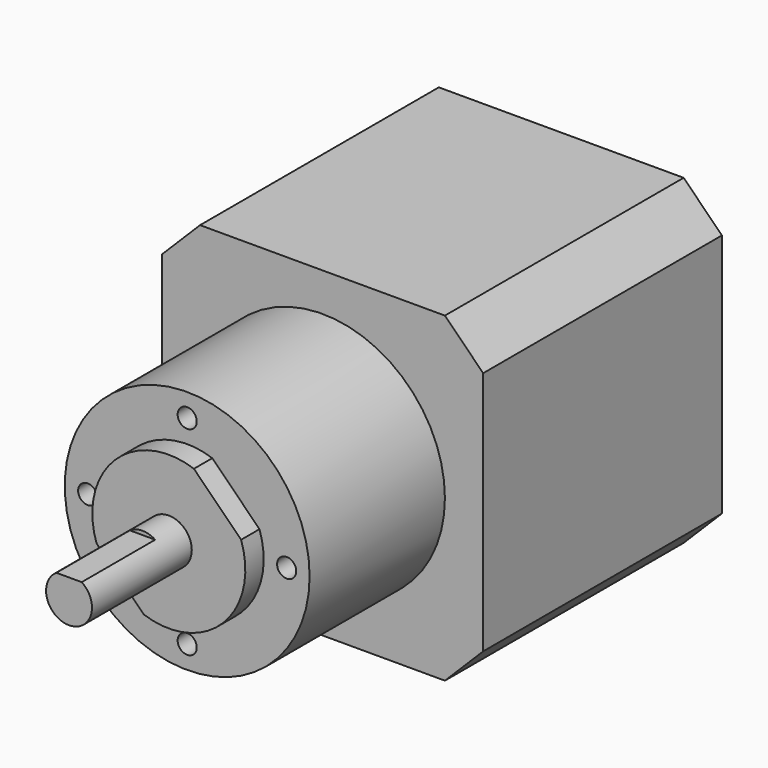
from build123d import *

# Parameters (mm, degrees)
F0_W      = 42
F0_H      = 42
F1_DEPTH  = 39
F2_R      = 16
F3_DEPTH  = 22.1
F4_R      = 10
F5_DEPTH  = 3
F6_R      = 3
F7_DEPTH  = 16.3
F8_SIZE   = 5
F10_DEPTH = 12
F12_DEPTH = 3
F14_D     = 2.5
F14_DEPTH = 7
F14_TIP   = 0.7510757738


with BuildPart() as f1:
    # F0 (on Front) → F1 (new body)
    with BuildSketch(Plane.XZ):
        Rectangle(F0_W, F0_H)
    extrude(amount=F1_DEPTH)

    # F2 (on face) → F3 (join)
    with BuildSketch(Plane.XZ.offset(39)):
        Circle(F2_R)
    extrude(amount=F3_DEPTH)

    # F4 (on face) → F5 (join)
    with BuildSketch(Plane.XZ.offset(61.1)):
        Circle(F4_R)
    extrude(amount=F5_DEPTH)

    # F6 (on face) → F7 (join)
    with BuildSketch(Plane.XZ.offset(64.1)):
        Circle(F6_R)
    extrude(amount=F7_DEPTH)

    # F8
    f8_edges = [f1.edges().sort_by_distance(p)[0] for p in [
        (-21, -19.5, 21),
        (21, -19.5, 21),
        (21, -19.5, -21),
        (-21, -19.5, -21),
    ]]
    chamfer(f8_edges, length=F8_SIZE)

    # F9 (on face) → F10 (cut)
    with BuildSketch(Plane.XZ.offset(80.4)):
        with BuildLine():
            Line((-1.6583123952, 2.5), (1.6583123952, 2.5))
            ThreePointArc((1.6583123952, 2.5), (0, 3), (-1.6583123952, 2.5))
        make_face()
    extrude(amount=-F10_DEPTH, mode=Mode.SUBTRACT)

    # F11 (on face) → F12 (cut, through all)
    with BuildSketch(Plane.XZ.offset(64.1)):
        with BuildLine():
            Line((3.2817540292, 9.4461680322), (9.4461680322, 3.2817540292))
            ThreePointArc((9.4461680322, 3.2817540292), (7.0710678119, 7.0710678119), (3.2817540292, 9.4461680322))
        make_face()
        with BuildLine():
            ThreePointArc((-9.4461680322, -3.2817540292), (-7.0710678119, -7.0710678119), (-3.2817540292, -9.4461680322))
            Line((-3.2817540292, -9.4461680322), (-9.4461680322, -3.2817540292))
        make_face()
    extrude(amount=-F12_DEPTH, mode=Mode.SUBTRACT)

    # F14
    with Locations(Plane.XZ.offset(61.1)):
        with Locations((0, 13), (-13, 0), (0, -13), (13, 0)):
            Hole(F14_D / 2, depth=F14_DEPTH)
            with Locations((0, 0, -(F14_DEPTH + F14_TIP / 2))):  # 118° drill point
                Cone(0, F14_D / 2, F14_TIP, mode=Mode.SUBTRACT)


solid = f1.part
